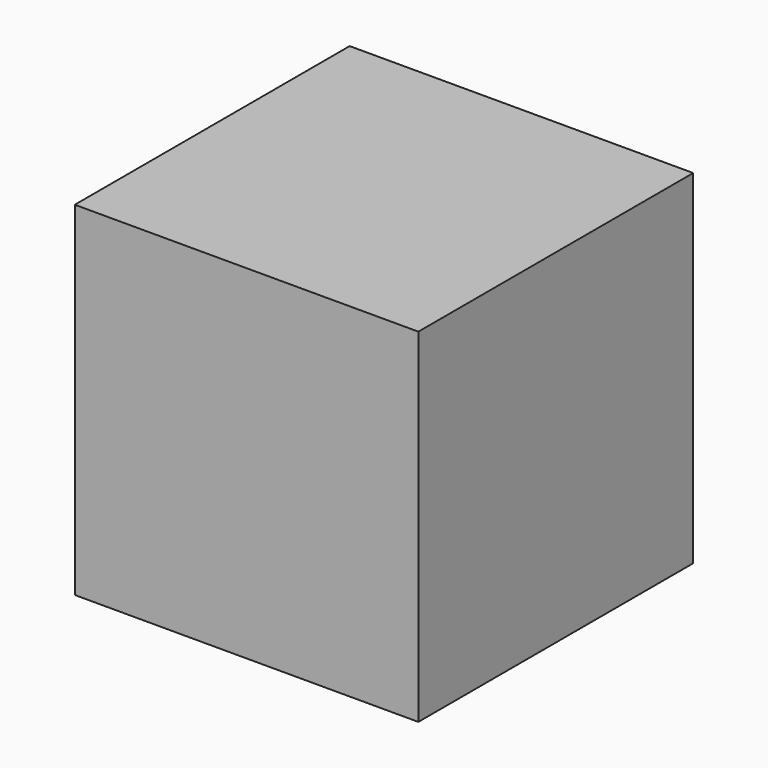
from build123d import *

# Parameters (mm, degrees)
F0_W     = 50
F0_H     = 50
F1_DEPTH = 25
F3_DEPTH = 25


with BuildPart() as f1:
    # F0 (on Front) → F1 (new body, symmetric)
    with BuildSketch(Plane.XZ):
        Rectangle(F0_W, F0_H)
    extrude(amount=F1_DEPTH, both=True)

    # F2 (on face) → F3 (cut)
    with BuildSketch(Plane(origin=(0, 25, 0), x_dir=(-1, 0, 0), z_dir=(0, 1, 0))):
        Polygon((15, 0), (0, 7.808506), (-15, 0), (0, -7.808506), align=None)
    extrude(amount=-F3_DEPTH, mode=Mode.SUBTRACT)


solid = f1.part
